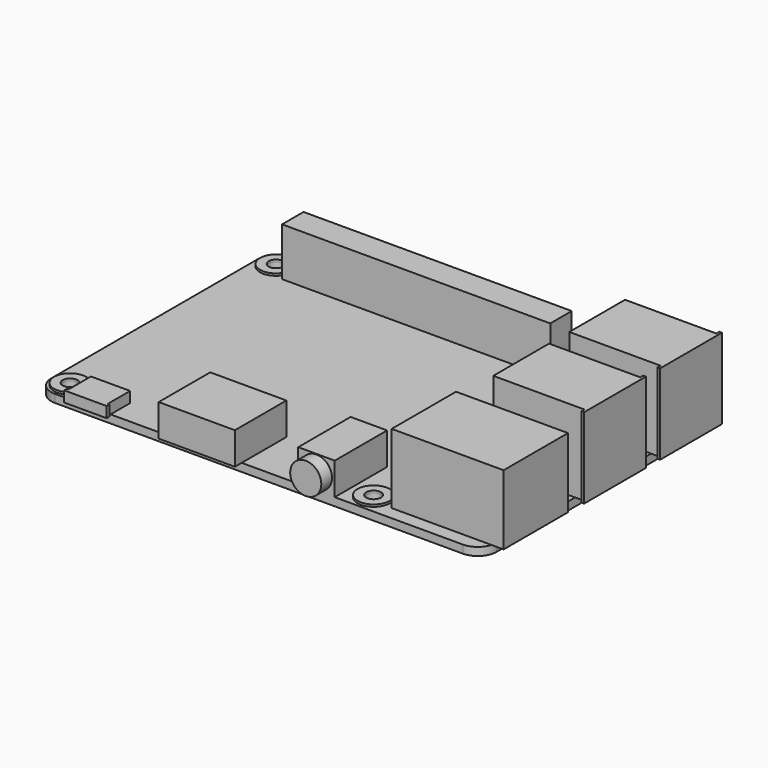
from build123d import *

# Parameters (mm, degrees)
F1_DEPTH  = 0.75
F2_W      = 15.2527261972
F2_H      = 13
F3_DEPTH  = 15
F4_DEPTH  = 2
F5_W      = 50
F5_H      = 5
F6_DEPTH  = 9
F7_W      = 7.3
F7_H      = 4.5542112009
F7_W_2    = 14.2
F7_H_2    = 10.4107348667
F7_W_3    = 6.8
F7_H_3    = 12.2
F7_H_4    = 1.5892651333
F8_DEPTH  = 6
F9_DEPTH  = 4
F10_W     = 14
F10_H     = 12
F11_DEPTH = 1
F12_R     = 2.9
F13_DEPTH = 2.5
F14_R     = 3
F14_R_2   = 1.375
F15_DEPTH = 0.4
F16_DEPTH = 25


with BuildPart() as f1:
    # F0 (on Top) → F1 (new body, symmetric)
    with BuildSketch(Plane.XY):
        with BuildLine():
            Line((96.8816299438, 73.7570084287), (20.8816299438, 73.7570084287))
            ThreePointArc((20.8816299438, 73.7570084287), (18.4067562097, 72.7318821628), (17.3816299438, 70.2570084287))
            Line((17.3816299438, 70.2570084287), (17.3816299438, 22.2570084287))
            ThreePointArc((17.3816299438, 22.2570084287), (18.4067562097, 19.7821346945), (20.8816299438, 18.7570084287))
            Line((20.8816299438, 18.7570084287), (96.8816299438, 18.7570084287))
            ThreePointArc((96.8816299438, 18.7570084287), (99.356503678, 19.7821346945), (100.3816299438, 22.2570084287))
            Line((100.3816299438, 22.2570084287), (100.3816299438, 70.2570084287))
            ThreePointArc((100.3816299438, 70.2570084287), (99.356503678, 72.7318821628), (96.8816299438, 73.7570084287))
        make_face()
    extrude(amount=F1_DEPTH, both=True)

    # F2 (on face) → F3 (join)
    with BuildSketch(Plane.XY.offset(0.75)):
        with BuildLine():
            Line((100.2344762848, 71.2612103079), (85.1289037466, 71.2612103079))
            Line((85.1289037466, 71.2612103079), (85.1289037466, 58.2612103079))
            Line((85.1289037466, 58.2612103079), (100.3816299438, 58.2612103079))
            Line((100.3816299438, 58.2612103079), (100.3816299438, 70.2570084287))
            ThreePointArc((100.3816299438, 70.2570084287), (100.3446461287, 70.7644716327), (100.2344762848, 71.2612103079))
        make_face()
        with BuildLine():
            Line((102.1289037466, 71.2612103079), (100.2344762848, 71.2612103079))
            ThreePointArc((100.2344762848, 71.2612103079), (100.3446461287, 70.7644716327), (100.3816299438, 70.2570084287))
            Line((100.3816299438, 70.2570084287), (100.3816299438, 58.2612103079))
            Line((100.3816299438, 58.2612103079), (102.1289037466, 58.2612103079))
            Line((102.1289037466, 58.2612103079), (102.1289037466, 57.5612103079))
            Line((102.1289037466, 57.5612103079), (102.6289037466, 57.5612103079))
            Line((102.6289037466, 57.5612103079), (102.6289037466, 71.9612103079))
            Line((102.6289037466, 71.9612103079), (102.1289037466, 71.9612103079))
            Line((102.1289037466, 71.9612103079), (102.1289037466, 71.2612103079))
        make_face()
        Polygon((102.1210900545, 53.5538156629), (100.3816299438, 53.5538156629), (100.3816299438, 40.5538156629), (102.1289037466, 40.5538156629), (102.1289037466, 39.8538156629), (102.6289037466, 39.8538156629), (102.6289037466, 54.2538156629), (102.1210900545, 54.2538156629), align=None)
        with Locations((92.7552668452, 47.0538156629)):
            Rectangle(F2_W, F2_H)
        with BuildLine():
            Line((100.3816299438, 22.2570084287), (100.3816299438, 36.2560376525))
            Line((100.3816299438, 36.2560376525), (85.1289037466, 36.2560376525))
            Line((85.1289037466, 36.2560376525), (81.6289037466, 36.2560376525))
            Line((81.6289037466, 36.2560376525), (81.6289037466, 21.2560376525))
            Line((81.6289037466, 21.2560376525), (85.1289037466, 21.2560376525))
            Line((85.1289037466, 21.2560376525), (100.2354423276, 21.2560376525))
            ThreePointArc((100.2354423276, 21.2560376525), (100.3448902101, 21.7512136793), (100.3816299438, 22.2570084287))
        make_face()
        with BuildLine():
            Line((102.4976894259, 36.2560376525), (100.3816299438, 36.2560376525))
            Line((100.3816299438, 36.2560376525), (100.3816299438, 22.2570084287))
            ThreePointArc((100.3816299438, 22.2570084287), (100.3448902101, 21.7512136793), (100.2354423276, 21.2560376525))
            Line((100.2354423276, 21.2560376525), (102.4976894259, 21.2560376525))
            Line((102.4976894259, 21.2560376525), (102.4976894259, 36.2560376525))
        make_face()
    extrude(amount=F3_DEPTH)

    # F4 (cut): a face of the model
    f4_faces = [f1.faces().sort_by_distance(p)[0] for p in [
        (92.0632965863, 28.7560376525, 15.75),
    ]]
    extrude(f4_faces, amount=-F4_DEPTH, mode=Mode.SUBTRACT)

    # F5 (on face) → F6 (join)
    with BuildSketch(Plane.XY.offset(0.75)):
        with Locations((49.090506424, 70.1389685273)):
            Rectangle(F5_W, F5_H)
    extrude(amount=F6_DEPTH)

    # F7 (on face) → F8 (join)
    with BuildSketch(Plane.XY.offset(0.75)):
        with Locations((27.5762250692, 21.0341140292)):
            Rectangle(F7_W, F7_H)
        Polygon((31.2262250692, 18.7570084287), (23.9262250692, 18.7570084287), (23.9262250692, 18.1112196296), (23.6262250692, 18.1112196296), (23.6262250692, 17.4612196296), (31.5262250692, 17.4612196296), (31.5262250692, 18.1112196296), (31.2262250692, 18.1112196296), align=None)
        with Locations((48.5707884192, 23.9623758621)):
            Rectangle(F7_W_2, F7_H_2)
        with Locations((69.6124156952, 24.8570084287)):
            Rectangle(F7_W_3, F7_H_3)
        with Locations((48.5707884192, 17.9623758621)):
            Rectangle(F7_W_2, F7_H_4)
    extrude(amount=F8_DEPTH)

    # F9 (cut): a face of the model
    f9_faces = [f1.faces().sort_by_distance(p)[0] for p in [
        (27.5762250692, 20.3626902179, 6.75),
    ]]
    extrude(f9_faces, amount=-F9_DEPTH, mode=Mode.SUBTRACT)

    # F10 (on face) → F11 (join)
    with BuildSketch(Plane(origin=(0, 0, -0.75), x_dir=(1, 0, 0), z_dir=(0, 0, -1))):
        with Locations((24.3816299438, -46.7570084287)):
            Rectangle(F10_W, F10_H)
    extrude(amount=F11_DEPTH)

    # F12 (on face) → F13 (join)
    with BuildSketch(Plane.XZ.offset(-18.7570084287)):
        with Locations((69.6124156952, 3.75)):
            Circle(F12_R)
    extrude(amount=F13_DEPTH)

    # F14 (on face) → F15 (join)
    with BuildSketch(Plane.XY.offset(0.75)):
        with Locations((77.4679929018, 70.2570084287)):
            Circle(F14_R)
        with Locations((77.4679929018, 70.2570084287)):
            Circle(F14_R_2, mode=Mode.SUBTRACT)
        with Locations((20.8816299438, 70.2570084287)):
            Circle(F14_R)
        with Locations((20.8816299438, 70.2570084287)):
            Circle(F14_R_2, mode=Mode.SUBTRACT)
        with Locations((20.8816299438, 22.2570084287)):
            Circle(F14_R)
        with Locations((20.8816299438, 22.2570084287)):
            Circle(F14_R_2, mode=Mode.SUBTRACT)
        with Locations((77.4679929018, 22.2570084287)):
            Circle(F14_R)
        with Locations((77.4679929018, 22.2570084287)):
            Circle(F14_R_2, mode=Mode.SUBTRACT)
    extrude(amount=F15_DEPTH)

    # F16 (cut): faces of the model
    f16_faces = [f1.faces().sort_by_distance(p)[0] for p in [
        (77.4679929018, 70.2570084287, 0.75),
        (77.4679929018, 22.2570084287, 0.75),
        (20.8816299438, 22.2570084287, 0.75),
        (20.8816299438, 70.2570084287, 0.75),
    ]]
    extrude(f16_faces, amount=-F16_DEPTH, mode=Mode.SUBTRACT)


solid = f1.part
